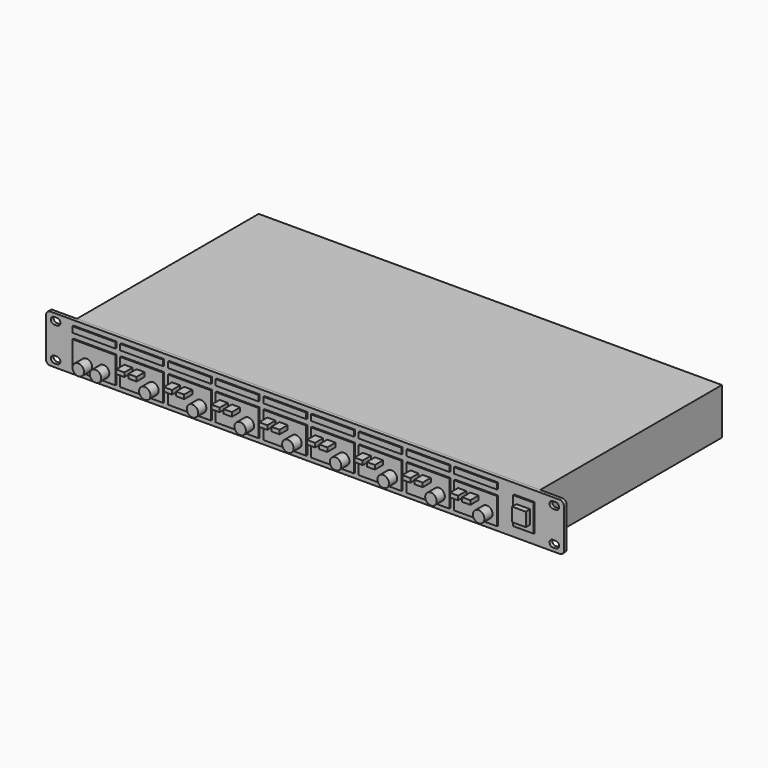
from build123d import *

# Parameters (mm, degrees)
F1_DEPTH  = 3.175
F2_W      = 431.8
F2_H      = 43.18
F3_DEPTH  = 212.725
F5_DEPTH  = 2.54
F6_R      = 3.175
F7_DEPTH  = 25.4
F8_DEPTH  = 25.4
F9_W      = 1.750887
F9_H      = 5.791405
F9_W_2    = 1.827627
F9_W_3    = 1.600521
F9_H_2    = 5.387353
F10_DEPTH = 12.7
F11_W     = 39.999038
F11_H     = 24.761319
F11_H_2   = 5.333207
F11_W_2   = 19.05
F11_H_3   = 25.4
F12_DEPTH = 1.27
F13_W     = 7.62
F13_H     = 3.81
F13_R     = 5.334
F14_DEPTH = 9.525
F15_R     = 5.334
F16_DEPTH = 9.525
F17_W     = 12.7
F17_H     = 12.7
F18_DEPTH = 5.08


with BuildPart() as f1:
    # F0 (on Front) → F1 (new body)
    with BuildSketch(Plane.XZ):
        with BuildLine():
            Line((237.49, 22.225), (-237.49, 22.225))
            ThreePointArc((-237.49, 22.225), (-240.184077, 21.109077), (-241.3, 18.415))
            Line((-241.3, 18.415), (-241.3, -18.415))
            ThreePointArc((-241.3, -18.415), (-240.184077, -21.109077), (-237.49, -22.225))
            Line((-237.49, -22.225), (237.49, -22.225))
            ThreePointArc((237.49, -22.225), (240.184077, -21.109077), (241.3, -18.415))
            Line((241.3, -18.415), (241.3, 18.415))
            ThreePointArc((241.3, 18.415), (240.184077, 21.109077), (237.49, 22.225))
        make_face()
        with BuildLine():
            Line((-231.14, -19.05), (-233.68, -19.05))
            ThreePointArc((-233.68, -19.05), (-236.855, -15.875), (-233.68, -12.7))
            Line((-233.68, -12.7), (-231.14, -12.7))
            ThreePointArc((-231.14, -12.7), (-227.965, -15.875), (-231.14, -19.05))
        make_face(mode=Mode.SUBTRACT)
        with BuildLine():
            Line((231.14, -12.7), (233.68, -12.7))
            ThreePointArc((233.68, -12.7), (236.855, -15.875), (233.68, -19.05))
            Line((233.68, -19.05), (231.14, -19.05))
            ThreePointArc((231.14, -19.05), (227.965, -15.875), (231.14, -12.7))
        make_face(mode=Mode.SUBTRACT)
        with BuildLine():
            ThreePointArc((-233.68, 12.7), (-236.855, 15.875), (-233.68, 19.05))
            Line((-233.68, 19.05), (-231.14, 19.05))
            ThreePointArc((-231.14, 19.05), (-227.965, 15.875), (-231.14, 12.7))
            Line((-231.14, 12.7), (-233.68, 12.7))
        make_face(mode=Mode.SUBTRACT)
        with BuildLine():
            ThreePointArc((233.68, 19.05), (236.855, 15.875), (233.68, 12.7))
            Line((233.68, 12.7), (231.14, 12.7))
            ThreePointArc((231.14, 12.7), (227.965, 15.875), (231.14, 19.05))
            Line((231.14, 19.05), (233.68, 19.05))
        make_face(mode=Mode.SUBTRACT)
    extrude(amount=F1_DEPTH)

    # F2 (on face) → F3 (join)
    with BuildSketch(Plane(origin=(0, 0, 0), x_dir=(-1, 0, 0), z_dir=(0, 1, 0))):
        Rectangle(F2_W, F2_H)
    extrude(amount=F3_DEPTH)

    # F4 (on face) → F5 (join)
    with BuildSketch(Plane(origin=(0, 212.725, 0), x_dir=(-1, 0, 0), z_dir=(0, 1, 0))):
        Polygon((-108.374176, 0), (-114.862608, 0), (-118.106825, -5.619147), (-114.862608, -11.238295), (-108.374176, -11.238295), (-105.12996, -5.619147), align=None)
        Polygon((-91.864176, -11.238295), (-88.61996, -5.619147), (-91.864176, 0), (-98.352608, 0), (-101.596825, -5.619147), (-98.352608, -11.238295), align=None)
        Polygon((-75.354176, -11.238295), (-72.10996, -5.619147), (-75.354176, 0), (-81.842608, 0), (-85.086825, -5.619147), (-81.842608, -11.238295), align=None)
        Polygon((-58.844176, -11.238295), (-55.59996, -5.619147), (-58.844176, 0), (-65.332608, 0), (-68.576825, -5.619147), (-65.332608, -11.238295), align=None)
        Polygon((-42.334176, -11.238295), (-39.08996, -5.619147), (-42.334176, 0), (-48.822608, 0), (-52.066825, -5.619147), (-48.822608, -11.238295), align=None)
        Polygon((-25.824176, -11.238295), (-22.57996, -5.619147), (-25.824176, 0), (-32.312608, 0), (-35.556825, -5.619147), (-32.312608, -11.238295), align=None)
        Polygon((-9.314176, -11.238295), (-6.06996, -5.619147), (-9.314176, 0), (-15.802608, 0), (-19.046825, -5.619147), (-15.802608, -11.238295), align=None)
        Polygon((7.195824, -11.238295), (10.44004, -5.619147), (7.195824, 0), (0.707392, 0), (-2.536825, -5.619147), (0.707392, -11.238295), align=None)
        Polygon((23.705824, -11.238295), (26.95004, -5.619147), (23.705824, 0), (17.217392, 0), (13.973175, -5.619147), (17.217392, -11.238295), align=None)
        Polygon((40.215824, -11.238295), (43.46004, -5.619147), (40.215824, 0), (33.727392, 0), (30.483175, -5.619147), (33.727392, -11.238295), align=None)
        Polygon((56.725824, -11.238295), (59.97004, -5.619147), (56.725824, 0), (50.237392, 0), (46.993175, -5.619147), (50.237392, -11.238295), align=None)
        Polygon((73.235824, -11.238295), (76.48004, -5.619147), (73.235824, 0), (66.747392, 0), (63.503175, -5.619147), (66.747392, -11.238295), align=None)
        Polygon((89.745824, -11.238295), (92.99004, -5.619147), (89.745824, 0), (83.257392, 0), (80.013175, -5.619147), (83.257392, -11.238295), align=None)
        Polygon((106.255824, -11.238295), (109.50004, -5.619147), (106.255824, 0), (99.767392, 0), (96.523175, -5.619147), (99.767392, -11.238295), align=None)
        Polygon((122.765824, -11.238295), (126.01004, -5.619147), (122.765824, 0), (116.277392, 0), (113.033175, -5.619147), (116.277392, -11.238295), align=None)
        Polygon((139.275824, -11.238295), (142.52004, -5.619147), (139.275824, 0), (132.787392, 0), (129.543175, -5.619147), (132.787392, -11.238295), align=None)
        Polygon((155.785824, -11.238295), (159.03004, -5.619147), (155.785824, 0), (149.297392, 0), (146.053175, -5.619147), (149.297392, -11.238295), align=None)
        Polygon((172.295824, -11.238295), (175.54004, -5.619147), (172.295824, 0), (165.807392, 0), (162.563175, -5.619147), (165.807392, -11.238295), align=None)
        Polygon((188.805824, -11.238295), (192.05004, -5.619147), (188.805824, 0), (182.317392, 0), (179.073175, -5.619147), (182.317392, -11.238295), align=None)
        Polygon((205.315824, -11.238295), (208.56004, -5.619147), (205.315824, 0), (198.827392, 0), (195.583175, -5.619147), (198.827392, -11.238295), align=None)
    extrude(amount=F5_DEPTH)

    # F6 (on face) → F7 (cut)
    with BuildSketch(Plane(origin=(0, 215.265, 0), x_dir=(-1, 0, 0), z_dir=(0, 1, 0))):
        with Locations((-111.618392, -5.619147)):
            Circle(F6_R)
        with Locations((-95.108392, -5.619147)):
            Circle(F6_R)
        with Locations((-78.598392, -5.619147)):
            Circle(F6_R)
        with Locations((-62.088392, -5.619147)):
            Circle(F6_R)
        with Locations((-45.578392, -5.619147)):
            Circle(F6_R)
        with Locations((-29.068392, -5.619147)):
            Circle(F6_R)
        with Locations((-12.558392, -5.619147)):
            Circle(F6_R)
        with Locations((3.951608, -5.619147)):
            Circle(F6_R)
        with Locations((20.461608, -5.619147)):
            Circle(F6_R)
        with Locations((36.971608, -5.619147)):
            Circle(F6_R)
        with Locations((53.481608, -5.619147)):
            Circle(F6_R)
        with Locations((69.991608, -5.619147)):
            Circle(F6_R)
        with Locations((86.501608, -5.619147)):
            Circle(F6_R)
        with Locations((103.011608, -5.619147)):
            Circle(F6_R)
        with Locations((119.521608, -5.619147)):
            Circle(F6_R)
        with Locations((136.031608, -5.619147)):
            Circle(F6_R)
        with Locations((152.541608, -5.619147)):
            Circle(F6_R)
        with Locations((169.051608, -5.619147)):
            Circle(F6_R)
        with Locations((185.561608, -5.619147)):
            Circle(F6_R)
        with Locations((202.071608, -5.619147)):
            Circle(F6_R)
    extrude(amount=-F7_DEPTH, mode=Mode.SUBTRACT)

    # F6 (on face) → F8 (cut)
    with BuildSketch(Plane(origin=(0, 215.265, 0), x_dir=(-1, 0, 0), z_dir=(0, 1, 0))):
        with Locations((-111.618392, -5.619147)):
            Circle(F6_R)
        with Locations((-95.108392, -5.619147)):
            Circle(F6_R)
        with Locations((-78.598392, -5.619147)):
            Circle(F6_R)
        with Locations((-62.088392, -5.619147)):
            Circle(F6_R)
        with Locations((-45.578392, -5.619147)):
            Circle(F6_R)
        with Locations((-29.068392, -5.619147)):
            Circle(F6_R)
        with Locations((-12.558392, -5.619147)):
            Circle(F6_R)
        with Locations((3.951608, -5.619147)):
            Circle(F6_R)
        with Locations((20.461608, -5.619147)):
            Circle(F6_R)
        with Locations((36.971608, -5.619147)):
            Circle(F6_R)
        with Locations((53.481608, -5.619147)):
            Circle(F6_R)
        with Locations((69.991608, -5.619147)):
            Circle(F6_R)
        with Locations((86.501608, -5.619147)):
            Circle(F6_R)
        with Locations((103.011608, -5.619147)):
            Circle(F6_R)
        with Locations((119.521608, -5.619147)):
            Circle(F6_R)
        with Locations((136.031608, -5.619147)):
            Circle(F6_R)
        with Locations((152.541608, -5.619147)):
            Circle(F6_R)
        with Locations((169.051608, -5.619147)):
            Circle(F6_R)
        with Locations((185.561608, -5.619147)):
            Circle(F6_R)
        with Locations((202.071608, -5.619147)):
            Circle(F6_R)
    extrude(amount=-F8_DEPTH, mode=Mode.SUBTRACT)

    # F9 (on face) → F10 (cut)
    with BuildSketch(Plane(origin=(0, 212.725, 0), x_dir=(-1, 0, 0), z_dir=(0, 1, 0))):
        Polygon((-185.486376, 15.885524), (-198.299736, 15.885524), (-204.479697, 9.809047), (-204.479697, -3.164476), (-179.079697, -3.164476), (-179.079697, 9.809047), align=None)
        with Locations((-198.117673, 4.987754)):
            Rectangle(F9_W, F9_H, mode=Mode.SUBTRACT)
        with Locations((-185.486377, 4.987754)):
            Rectangle(F9_W_2, F9_H, mode=Mode.SUBTRACT)
        with Locations((-191.779697, 11.115866)):
            Rectangle(F9_W_3, F9_H_2, mode=Mode.SUBTRACT)
    extrude(amount=-F10_DEPTH, mode=Mode.SUBTRACT)

    # F11 (on face) → F12 (join)
    with BuildSketch(Plane.XZ.offset(3.175)):
        with Locations((-195.614398, -5.333208)):
            Rectangle(F11_W, F11_H)
        with Locations((-195.614398, 15.047261)):
            Rectangle(F11_W, F11_H_2)
        with Locations((-151.164398, -5.333208)):
            Rectangle(F11_W, F11_H)
        with Locations((-151.164398, 15.047261)):
            Rectangle(F11_W, F11_H_2)
        with Locations((-106.714398, -5.333208)):
            Rectangle(F11_W, F11_H)
        with Locations((-106.714398, 15.047261)):
            Rectangle(F11_W, F11_H_2)
        with Locations((-62.264398, -5.333208)):
            Rectangle(F11_W, F11_H)
        with Locations((-62.264398, 15.047261)):
            Rectangle(F11_W, F11_H_2)
        with Locations((-17.814398, -5.333208)):
            Rectangle(F11_W, F11_H)
        with Locations((-17.814398, 15.047261)):
            Rectangle(F11_W, F11_H_2)
        with Locations((26.635602, -5.333208)):
            Rectangle(F11_W, F11_H)
        with Locations((26.635602, 15.047261)):
            Rectangle(F11_W, F11_H_2)
        with Locations((71.085602, -5.333208)):
            Rectangle(F11_W, F11_H)
        with Locations((71.085602, 15.047261)):
            Rectangle(F11_W, F11_H_2)
        with Locations((115.535602, -5.333208)):
            Rectangle(F11_W, F11_H)
        with Locations((115.535602, 15.047261)):
            Rectangle(F11_W, F11_H_2)
        with Locations((159.985602, -5.333208)):
            Rectangle(F11_W, F11_H)
        with Locations((159.985602, 15.047261)):
            Rectangle(F11_W, F11_H_2)
        with Locations((204.566568, 0)):
            Rectangle(F11_W_2, F11_H_3)
    extrude(amount=F12_DEPTH)

    # F13 (on face) → F14 (join)
    with BuildSketch(Plane.XZ.offset(4.445)):
        with Locations((-163.57103, 0)):
            Rectangle(F13_W, F13_H)
        with Locations((-152.199179, 0)):
            Rectangle(F13_W, F13_H)
        with Locations((-140.667155, -9.059657)):
            Circle(F13_R)
        with Locations((-96.217155, -9.059657)):
            Circle(F13_R)
        with Locations((-107.749179, 0)):
            Rectangle(F13_W, F13_H)
        with Locations((-119.12103, 0)):
            Rectangle(F13_W, F13_H)
        with Locations((-51.767155, -9.059657)):
            Circle(F13_R)
        with Locations((-63.299179, 0)):
            Rectangle(F13_W, F13_H)
        with Locations((-74.67103, 0)):
            Rectangle(F13_W, F13_H)
        with Locations((-7.317155, -9.059657)):
            Circle(F13_R)
        with Locations((-18.849179, 0)):
            Rectangle(F13_W, F13_H)
        with Locations((-30.22103, 0)):
            Rectangle(F13_W, F13_H)
        with Locations((37.132845, -9.059657)):
            Circle(F13_R)
        with Locations((25.600821, 0)):
            Rectangle(F13_W, F13_H)
        with Locations((14.22897, 0)):
            Rectangle(F13_W, F13_H)
        with Locations((81.582845, -9.059657)):
            Circle(F13_R)
        with Locations((70.050821, 0)):
            Rectangle(F13_W, F13_H)
        with Locations((58.67897, 0)):
            Rectangle(F13_W, F13_H)
        with Locations((126.032845, -9.059657)):
            Circle(F13_R)
        with Locations((114.500821, 0)):
            Rectangle(F13_W, F13_H)
        with Locations((103.12897, 0)):
            Rectangle(F13_W, F13_H)
        with Locations((170.482845, -9.059657)):
            Circle(F13_R)
        with Locations((158.950821, 0)):
            Rectangle(F13_W, F13_H)
        with Locations((147.57897, 0)):
            Rectangle(F13_W, F13_H)
    extrude(amount=F14_DEPTH)

    # F15 (on face) → F16 (join)
    with BuildSketch(Plane.XZ.offset(4.445)):
        with Locations((-186.644688, -9.897917)):
            Circle(F15_R)
        with Locations((-202.66138, -9.897917)):
            Circle(F15_R)
    extrude(amount=F16_DEPTH)

    # F17 (on face) → F18 (join)
    with BuildSketch(Plane.XZ.offset(4.445)):
        with Locations((204.566568, 0)):
            Rectangle(F17_W, F17_H)
    extrude(amount=F18_DEPTH)


solid = f1.part
